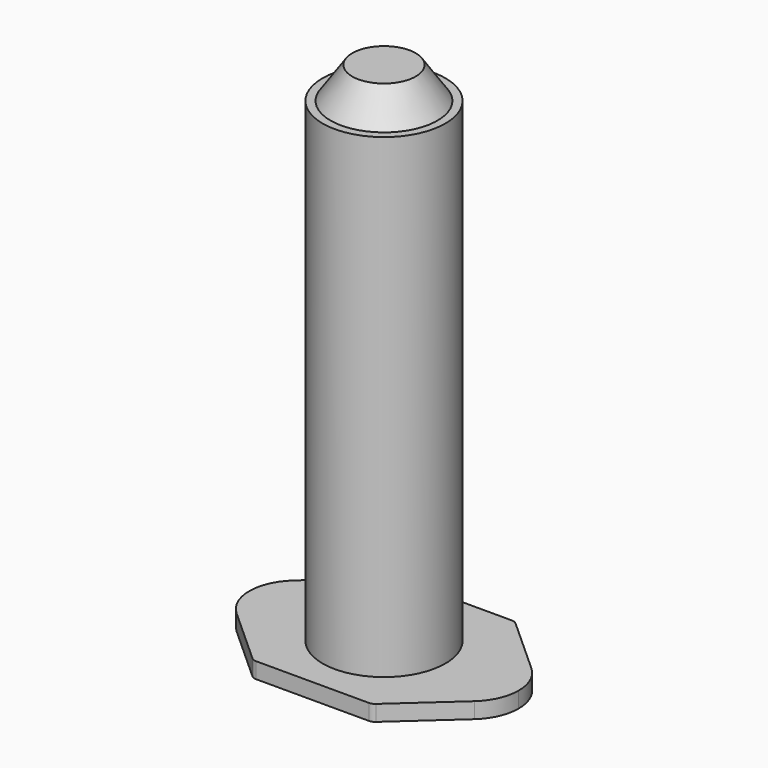
from build123d import *

# Parameters (mm, degrees)
F3_DEPTH = 66.001
F4_R     = 1


with BuildPart() as f1:
    # F0 (on Front) → F1 (revolve)
    with BuildSketch(Plane.XZ):
        Polygon((-17, 0), (0, 0), (0, 66), (-4, 66), (-6.75, 62), (-7.75, 62), (-7.75, 2), (-17, 2), align=None)
    revolve(axis=Axis((0, 0, 33), (0, 0, -1)))

    # F2 (on face) → F3 (cut, through all)
    with BuildSketch(Plane(origin=(0, 0, 0), x_dir=(1, 0, 0), z_dir=(0, 0, -1))):
        with BuildLine():
            Line((-7.5, 11.275), (7.5, 11.275))
            Line((7.5, 11.275), (15, 4.501284))
            ThreePointArc((15, 4.501284), (16.477494, 2.462801), (17, 0))
            ThreePointArc((17, 0), (0, 17), (-17, 0))
            ThreePointArc((-17, 0), (-16.477494, 2.462801), (-15, 4.501284))
            Line((-15, 4.501284), (-7.5, 11.275))
        make_face()
        with BuildLine():
            ThreePointArc((-17, 0), (0, -17), (17, 0))
            ThreePointArc((17, 0), (16.477494, -2.462801), (15, -4.501284))
            Line((15, -4.501284), (7.5, -11.275))
            Line((7.5, -11.275), (-7.5, -11.275))
            Line((-7.5, -11.275), (-15, -4.501284))
            ThreePointArc((-15, -4.501284), (-16.477494, -2.462801), (-17, 0))
        make_face()
    extrude(amount=-F3_DEPTH, mode=Mode.SUBTRACT)

    # F4
    f4_edges = [f1.edges().sort_by_distance(p)[0] for p in [
        (-7.5, -11.275, 1),
        (7.5, -11.275, 1),
        (-7.5, 11.275, 1),
        (7.5, 11.275, 1),
    ]]
    fillet(f4_edges, radius=F4_R)


solid = f1.part
